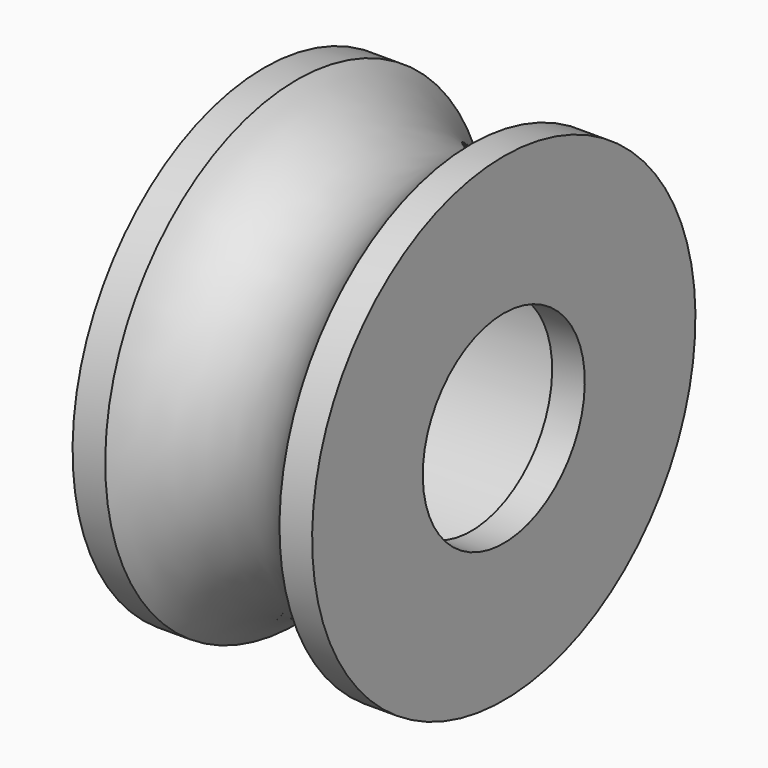
from build123d import *


with BuildPart() as f1:
    # F0 (on Front) → F1 (revolve)
    with BuildSketch(Plane.XZ):
        with BuildLine():
            Line((-6.277208, 22), (-6.277208, 14.3))
            Line((-6.277208, 14.3), (12.722792, 14.3))
            Line((12.722792, 14.3), (12.722792, 9.3))
            Line((12.722792, 9.3), (15.722792, 9.3))
            Line((15.722792, 9.3), (15.722792, 22))
            Line((15.722792, 22), (12.722792, 22))
            ThreePointArc((12.722792, 22), (4.722792, 18), (-3.277208, 22))
            Line((-3.277208, 22), (-6.277208, 22))
        make_face()
    revolve(axis=Axis((-0.613183, 0, 0), (1, 0, 0)))


solid = f1.part
